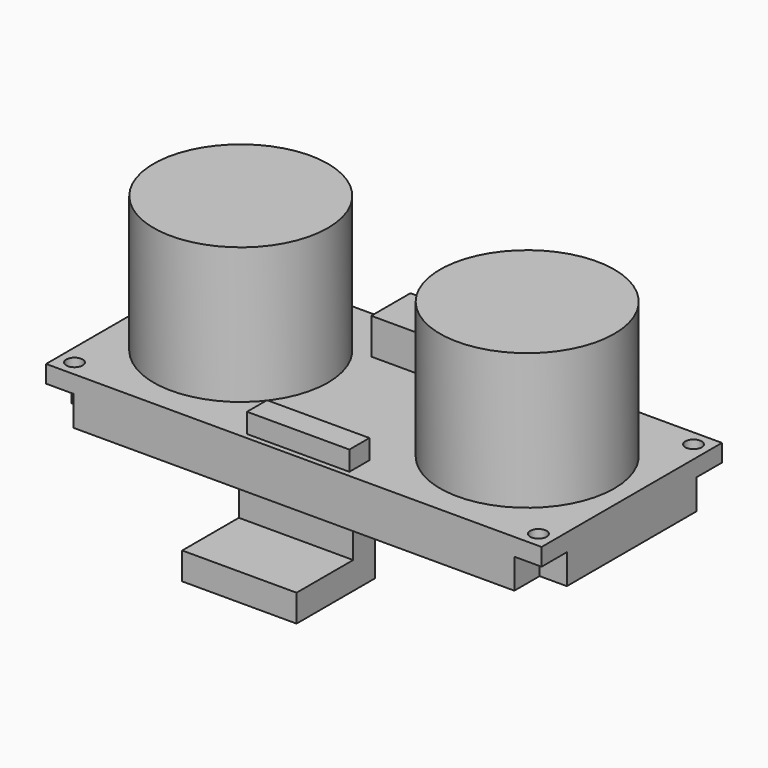
from build123d import *

# Parameters (mm, degrees)
F0_W      = 45.5
F0_H      = 20.7
F0_R      = 0.75
F1_DEPTH  = 1.6
F2_R      = 8
F3_DEPTH  = 12.5
F2_W      = 10.5
F2_H      = 4.5
F4_DEPTH  = 3.3
F2_W_2    = 9.4
F2_H_2    = 2.3
F5_DEPTH  = 1.8
F7_DEPTH  = 2.75
F8_W      = 10.5
F8_H      = 2.5
F9_DEPTH  = 5
F10_W     = 10.5
F10_H     = 2.5
F11_DEPTH = 6.5


with BuildPart() as f1:
    # F0 (on Top) → F1 (new body)
    with BuildSketch(Plane.XY):
        Rectangle(F0_W, F0_H)
        with Locations((-21.3, -8.9)):
            Circle(F0_R, mode=Mode.SUBTRACT)
        with Locations((21.3, -8.9)):
            Circle(F0_R, mode=Mode.SUBTRACT)
        with Locations((-21.3, 8.9)):
            Circle(F0_R, mode=Mode.SUBTRACT)
        with Locations((21.3, 8.9)):
            Circle(F0_R, mode=Mode.SUBTRACT)
    extrude(amount=F1_DEPTH)

    # F2 (on face) → F3 (join)
    with BuildSketch(Plane.XY.offset(1.6)):
        with Locations((-13.15, 0)):
            Circle(F2_R)
        with Locations((13.15, 0)):
            Circle(F2_R)
    extrude(amount=F3_DEPTH)

    # F2 (on face) → F4 (join)
    with BuildSketch(Plane.XY.offset(1.6)):
        with Locations((0, 7.35)):
            Rectangle(F2_W, F2_H)
    extrude(amount=F4_DEPTH)

    # F2 (on face) → F5 (join)
    with BuildSketch(Plane.XY.offset(1.6)):
        with Locations((0, -8.7)):
            Rectangle(F2_W_2, F2_H_2)
    extrude(amount=F5_DEPTH)

    # F6 (on face) → F7 (join)
    with BuildSketch(Plane(origin=(0, 0, 0), x_dir=(1, 0, 0), z_dir=(0, 0, -1))):
        Polygon((-20.25, -7.45), (-20.25, -10.35), (20.25, -10.35), (20.25, -7.45), (22.75, -7.45), (22.75, 7.45), (20.25, 7.45), (20.25, 10.35), (-20.25, 10.35), (-20.25, 7.45), (-22.75, 7.45), (-22.75, -7.45), align=None)
    extrude(amount=F7_DEPTH)

    # F8 (on face) → F9 (join)
    with BuildSketch(Plane(origin=(0, 0, -2.75), x_dir=(1, 0, 0), z_dir=(0, 0, -1))):
        with Locations((0, 8.85)):
            Rectangle(F8_W, F8_H)
    extrude(amount=F9_DEPTH)

    # F10 (on face) → F11 (join)
    with BuildSketch(Plane.XZ.offset(10.1)):
        with Locations((0, -6.5)):
            Rectangle(F10_W, F10_H)
    extrude(amount=F11_DEPTH)


solid = f1.part
